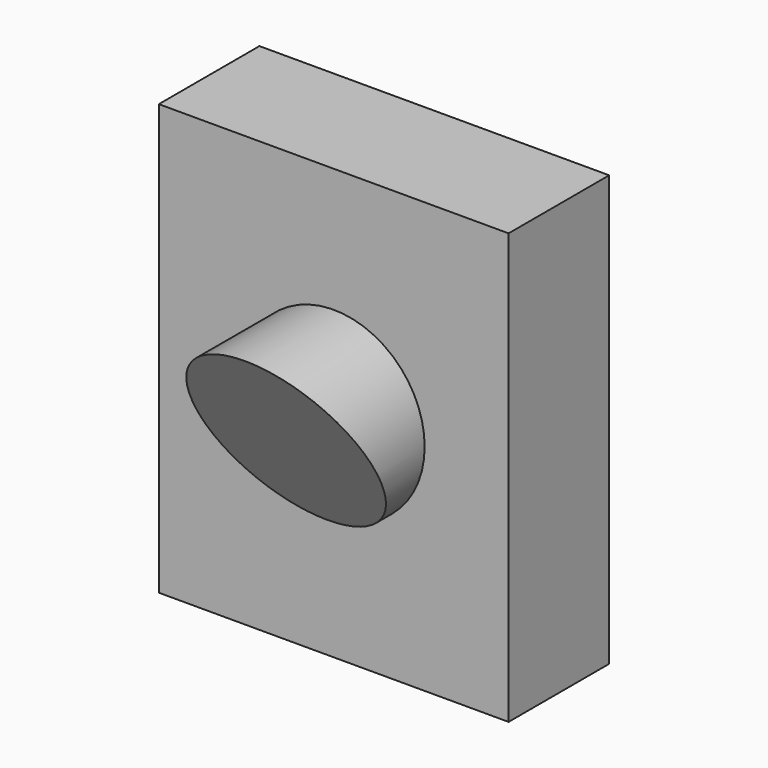
from build123d import *

# Parameters (mm, degrees)
F0_R     = 16.168204
F0_W     = 62.179334
F0_H     = 76.463766
F1_DEPTH = 22.352
F2_DEPTH = 43.18
F4_DEPTH = 25.4
F5_DEPTH = 25.4


with BuildPart() as f1:
    # F0 (on Front) → F1 (new body)
    with BuildSketch(Plane.XZ):
        Circle(F0_R)
        Rectangle(F0_W, F0_H)
        Circle(F0_R, mode=Mode.SUBTRACT)
    extrude(amount=F1_DEPTH)

    # F0 (on Front) → F2 (join)
    with BuildSketch(Plane.XZ):
        Circle(F0_R)
    extrude(amount=F2_DEPTH)

    # F3 (on Right) → F4 (cut)
    with BuildSketch(Plane.YZ):
        Polygon((-43.015767, 17.78225), (-58.439311, 18.220695), (-58.439311, -16.693853), (-23.446971, -16.693853), align=None)
    extrude(amount=F4_DEPTH, mode=Mode.SUBTRACT)

    # F3 (on Right) → F5 (cut)
    with BuildSketch(Plane.YZ):
        Polygon((-43.015767, 17.78225), (-58.439311, 18.220695), (-58.439311, -16.693853), (-23.446971, -16.693853), align=None)
    extrude(amount=-F5_DEPTH, mode=Mode.SUBTRACT)


solid = f1.part
